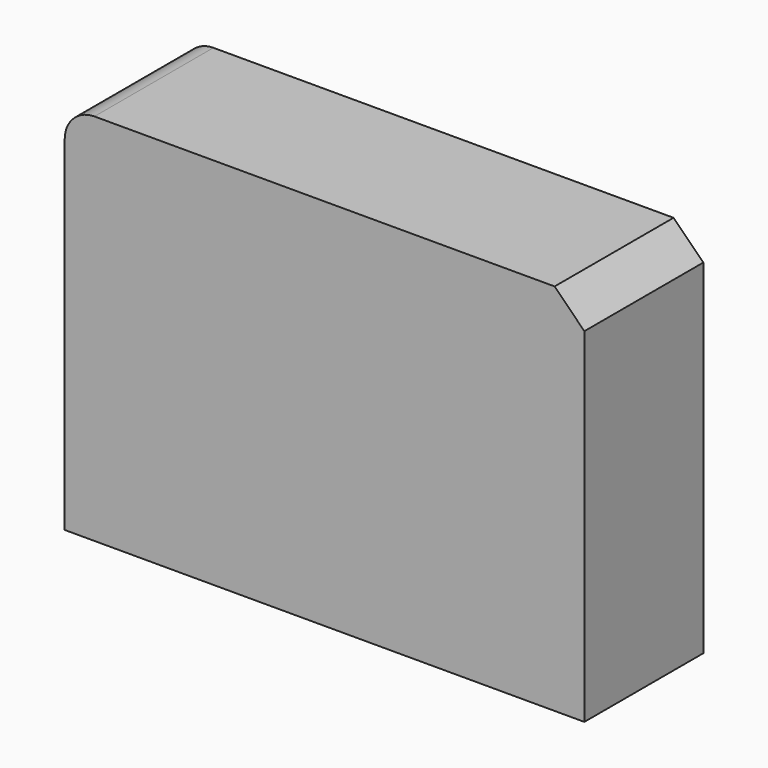
from build123d import *

# Parameters (mm, degrees)
F0_W     = 88.773
F0_H     = 63.843242
F1_DEPTH = 25.4
F2_R     = 5.08
F3_SIZE  = 5.08


with BuildPart() as f1:
    # F0 (on Front) → F1 (new body)
    with BuildSketch(Plane.XZ):
        Rectangle(F0_W, F0_H)
    extrude(amount=F1_DEPTH)

    # F2
    f2_edges = [f1.edges().sort_by_distance(p)[0] for p in [
        (-44.3865, -12.7, 31.921621),
    ]]
    fillet(f2_edges, radius=F2_R)

    # F3
    f3_edges = [f1.edges().sort_by_distance(p)[0] for p in [
        (44.3865, -12.7, 31.921621),
    ]]
    chamfer(f3_edges, length=F3_SIZE)


solid = f1.part
